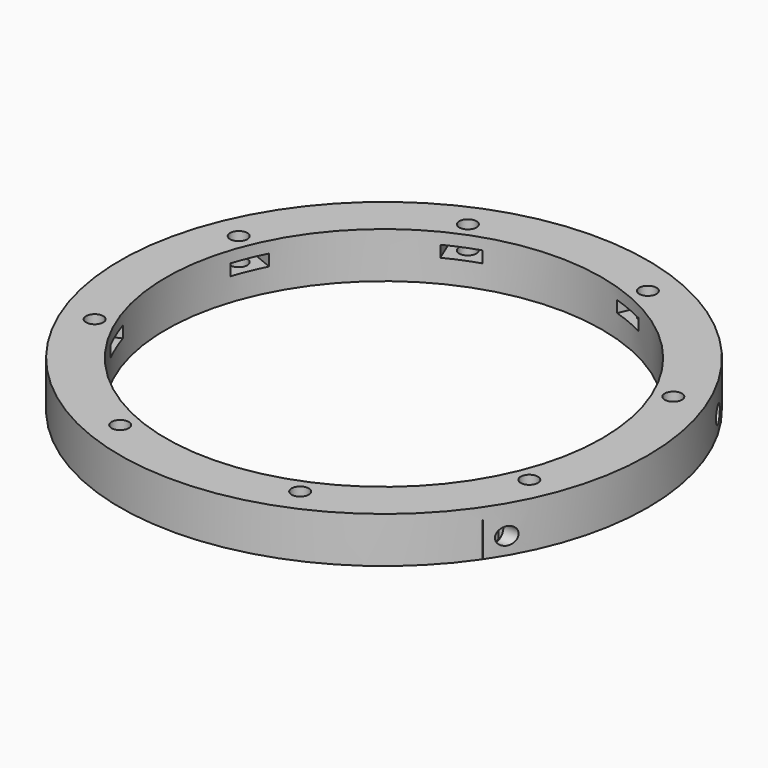
from build123d import *

# Parameters (mm, degrees)
CYLINDER247_R               = 1.5
CYLINDER247_DEPTH           = 60
CYLINDER248_R               = 1.5
CYLINDER248_DEPTH           = 60
CYLINDER250_R               = 1.5
CYLINDER250_DEPTH           = 60
CYLINDER249_R               = 1.5
CYLINDER249_DEPTH           = 60
BOX106_W                    = 2
BOX106_H                    = 6
BOX106_DEPTH                = 6
BOX109_W                    = 2
BOX109_H                    = 6
BOX109_DEPTH                = 6
BOX107_W                    = 2
BOX107_H                    = 6
BOX107_DEPTH                = 6
BOX108_W                    = 2
BOX108_H                    = 6
BOX108_DEPTH                = 6
BOX088_W                    = 8
BOX088_H                    = 6
BOX088_DEPTH                = 2
BOX089_W                    = 8
BOX089_H                    = 6
BOX089_DEPTH                = 2
BOX089_PLACEMENT_ANGLE      = 135
BOX090_W                    = 8
BOX090_H                    = 6
BOX090_DEPTH                = 2
BOX091_W                    = 8
BOX091_H                    = 6
BOX091_DEPTH                = 2
BOX091_PLACEMENT_ANGLE      = 225
BOX092_W                    = 8
BOX092_H                    = 6
BOX092_DEPTH                = 2
BOX093_W                    = 8
BOX093_H                    = 6
BOX093_DEPTH                = 2
BOX093_PLACEMENT_ANGLE      = 45
BOX070_W                    = 8
BOX070_H                    = 6
BOX070_DEPTH                = 2
BOX087_W                    = 8
BOX087_H                    = 6
BOX087_DEPTH                = 2
BOX087_PLACEMENT_ANGLE      = 45
COMPOUND206_PLACEMENT_ANGLE = 22.5
CYLINDER205_R               = 1.5
CYLINDER205_DEPTH           = 60
CYLINDER206_R               = 1.5
CYLINDER206_DEPTH           = 60
CYLINDER206_PLACEMENT_ANGLE = 135
CYLINDER207_R               = 1.5
CYLINDER207_DEPTH           = 60
CYLINDER208_R               = 1.5
CYLINDER208_DEPTH           = 60
CYLINDER208_PLACEMENT_ANGLE = 225
CYLINDER209_R               = 1.5
CYLINDER209_DEPTH           = 60
CYLINDER210_R               = 1.5
CYLINDER210_DEPTH           = 60
CYLINDER210_PLACEMENT_ANGLE = 45
CYLINDER189_R               = 1.5
CYLINDER189_DEPTH           = 60
CYLINDER204_R               = 1.5
CYLINDER204_DEPTH           = 60
CYLINDER204_PLACEMENT_ANGLE = 45
COMPOUND207_PLACEMENT_ANGLE = 22.5
TUBE009_R                   = 46
TUBE009_R_2                 = 38
TUBE009_DEPTH               = 8


with BuildPart() as obj1:
    # Cylinder247 → Cylinder247 (new body)
    with BuildSketch(Plane(origin=(32, -23, -5), x_dir=(0, 0, -1), z_dir=(1, 0, 0))):
        Circle(CYLINDER247_R)
    extrude(amount=CYLINDER247_DEPTH)


with BuildPart() as obj2:
    # Cylinder248 → Cylinder248 (new body)
    with BuildSketch(Plane(origin=(28, 51, 7), x_dir=(0, 0, -1), z_dir=(1, 0, 0))):
        Circle(CYLINDER248_R)
    extrude(amount=CYLINDER248_DEPTH)


with BuildPart() as obj3:
    # Cylinder250 → Cylinder250 (new body)
    with BuildSketch(Plane(origin=(28, -51, 7), x_dir=(0, 0, -1), z_dir=(1, 0, 0))):
        Circle(CYLINDER250_R)
    extrude(amount=CYLINDER250_DEPTH)


with BuildPart() as compound219:
    # Cylinder249 → Cylinder249 (new body)
    with BuildSketch(Plane(origin=(32, 23, -5), x_dir=(0, 0, -1), z_dir=(1, 0, 0))):
        Circle(CYLINDER249_R)
    extrude(amount=CYLINDER249_DEPTH)

    # Compound219: union obj1, obj2, obj3
    add(obj1.part)
    add(obj2.part)
    add(obj3.part)


with BuildPart() as krychle106:
    # Box106 → Box106 (new body)
    with BuildSketch(Plane(origin=(36, -26, -8), x_dir=(1, 0, 0), z_dir=(0, 0, 1))):
        with Locations((1, 3)):
            Rectangle(BOX106_W, BOX106_H)
    extrude(amount=BOX106_DEPTH)


with BuildPart() as krychle109:
    # Box109 → Box109 (new body)
    with BuildSketch(Plane(origin=(32, 48, 4), x_dir=(1, 0, 0), z_dir=(0, 0, 1))):
        with Locations((1, 3)):
            Rectangle(BOX109_W, BOX109_H)
    extrude(amount=BOX109_DEPTH)


with BuildPart() as krychle107:
    # Box107 → Box107 (new body)
    with BuildSketch(Plane(origin=(32, -54, 4), x_dir=(1, 0, 0), z_dir=(0, 0, 1))):
        with Locations((1, 3)):
            Rectangle(BOX107_W, BOX107_H)
    extrude(amount=BOX107_DEPTH)


with BuildPart() as compound218:
    # Box108 → Box108 (new body)
    with BuildSketch(Plane(origin=(36, 20, -8), x_dir=(1, 0, 0), z_dir=(0, 0, 1))):
        with Locations((1, 3)):
            Rectangle(BOX108_W, BOX108_H)
    extrude(amount=BOX108_DEPTH)

    # Compound218: union Krychle106, Krychle109, Krychle107
    add(krychle106.part)
    add(krychle109.part)
    add(krychle107.part)


with BuildPart() as krychle088:
    # Box088 → Box088 (new body)
    with BuildSketch(Plane(origin=(3, 37, -4), x_dir=(0, 1, 0), z_dir=(0, 0, 1))):
        with Locations((4, 3)):
            Rectangle(BOX088_W, BOX088_H)
    extrude(amount=BOX088_DEPTH)


with BuildPart() as krychle089:
    # Box089 → Box089 (new body)
    with BuildSketch(Plane.XY):
        with Locations((4, 3)):
            Rectangle(BOX089_W, BOX089_H)
    extrude(amount=BOX089_DEPTH)


with BuildPart() as krychle089_1:
    # Box089 placement: moved
    add(krychle089.part.moved(Location((-24.041631, 28.284271, -4))).rotate(Axis((-24.041631, 28.284271, -4), (0, 0, 1)), BOX089_PLACEMENT_ANGLE))


with BuildPart() as krychle090:
    # Box090 → Box090 (new body)
    with BuildSketch(Plane(origin=(-37, 3, -4), x_dir=(-1, 0, 0), z_dir=(0, 0, 1))):
        with Locations((4, 3)):
            Rectangle(BOX090_W, BOX090_H)
    extrude(amount=BOX090_DEPTH)


with BuildPart() as krychle091:
    # Box091 → Box091 (new body)
    with BuildSketch(Plane.XY):
        with Locations((4, 3)):
            Rectangle(BOX091_W, BOX091_H)
    extrude(amount=BOX091_DEPTH)


with BuildPart() as krychle091_1:
    # Box091 placement: moved
    add(krychle091.part.moved(Location((-28.284271, -24.041631, -4))).rotate(Axis((-28.284271, -24.041631, -4), (0, 0, 1)), BOX091_PLACEMENT_ANGLE))


with BuildPart() as krychle092:
    # Box092 → Box092 (new body)
    with BuildSketch(Plane(origin=(-3, -37, -4), x_dir=(0, -1, 0), z_dir=(0, 0, 1))):
        with Locations((4, 3)):
            Rectangle(BOX092_W, BOX092_H)
    extrude(amount=BOX092_DEPTH)


with BuildPart() as krychle093:
    # Box093 → Box093 (new body)
    with BuildSketch(Plane.XY):
        with Locations((4, 3)):
            Rectangle(BOX093_W, BOX093_H)
    extrude(amount=BOX093_DEPTH)


with BuildPart() as krychle093_1:
    # Box093 placement: moved
    add(krychle093.part.moved(Location((24.041631, -28.284271, -4))).rotate(Axis((24.041631, -28.284271, -4), (0, 0, -1)), BOX093_PLACEMENT_ANGLE))


with BuildPart() as krychle070:
    # Box070 → Box070 (new body)
    with BuildSketch(Plane(origin=(37, -3, -4), x_dir=(1, 0, 0), z_dir=(0, 0, 1))):
        with Locations((4, 3)):
            Rectangle(BOX070_W, BOX070_H)
    extrude(amount=BOX070_DEPTH)


with BuildPart() as compound206:
    # Box087 → Box087 (new body)
    with BuildSketch(Plane.XY):
        with Locations((4, 3)):
            Rectangle(BOX087_W, BOX087_H)
    extrude(amount=BOX087_DEPTH)


with BuildPart() as compound206_1:
    # Box087 placement: moved
    add(compound206.part.moved(Location((28.284271, 24.041631, -4))).rotate(Axis((28.284271, 24.041631, -4), (0, 0, 1)), BOX087_PLACEMENT_ANGLE))

    # Compound206: union Krychle088, Krychle089, Krychle090, Krychle091, Krychle092, Krychle093, Krychle070
    add(krychle088.part)
    add(krychle089_1.part)
    add(krychle090.part)
    add(krychle091_1.part)
    add(krychle092.part)
    add(krychle093_1.part)
    add(krychle070.part)


with BuildPart() as compound206_2:
    # Compound206 placement: moved
    add(compound206_1.part.rotate(Axis((0, 0, 0), (0, 0, 1)), COMPOUND206_PLACEMENT_ANGLE))


with BuildPart() as obj4:
    # Cylinder205 → Cylinder205 (new body)
    with BuildSketch(Plane(origin=(0, 41, -54), x_dir=(0, 1, 0), z_dir=(0, 0, 1))):
        Circle(CYLINDER205_R)
    extrude(amount=CYLINDER205_DEPTH)


with BuildPart() as obj5:
    # Cylinder206 → Cylinder206 (new body)
    with BuildSketch(Plane.XY):
        Circle(CYLINDER206_R)
    extrude(amount=CYLINDER206_DEPTH)


with BuildPart() as obj5_1:
    # Cylinder206 placement: moved
    add(obj5.part.moved(Location((-28.991378, 28.991378, -54))).rotate(Axis((-28.991378, 28.991378, -54), (0, 0, 1)), CYLINDER206_PLACEMENT_ANGLE))


with BuildPart() as obj6:
    # Cylinder207 → Cylinder207 (new body)
    with BuildSketch(Plane(origin=(-41, 0, -54), x_dir=(-1, 0, 0), z_dir=(0, 0, 1))):
        Circle(CYLINDER207_R)
    extrude(amount=CYLINDER207_DEPTH)


with BuildPart() as obj7:
    # Cylinder208 → Cylinder208 (new body)
    with BuildSketch(Plane.XY):
        Circle(CYLINDER208_R)
    extrude(amount=CYLINDER208_DEPTH)


with BuildPart() as obj7_1:
    # Cylinder208 placement: moved
    add(obj7.part.moved(Location((-28.991378, -28.991378, -54))).rotate(Axis((-28.991378, -28.991378, -54), (0, 0, 1)), CYLINDER208_PLACEMENT_ANGLE))


with BuildPart() as obj8:
    # Cylinder209 → Cylinder209 (new body)
    with BuildSketch(Plane(origin=(0, -41, -54), x_dir=(0, -1, 0), z_dir=(0, 0, 1))):
        Circle(CYLINDER209_R)
    extrude(amount=CYLINDER209_DEPTH)


with BuildPart() as obj9:
    # Cylinder210 → Cylinder210 (new body)
    with BuildSketch(Plane.XY):
        Circle(CYLINDER210_R)
    extrude(amount=CYLINDER210_DEPTH)


with BuildPart() as obj9_1:
    # Cylinder210 placement: moved
    add(obj9.part.moved(Location((28.991378, -28.991378, -54))).rotate(Axis((28.991378, -28.991378, -54), (0, 0, -1)), CYLINDER210_PLACEMENT_ANGLE))


with BuildPart() as obj10:
    # Cylinder189 → Cylinder189 (new body)
    with BuildSketch(Plane(origin=(41, 0, -54), x_dir=(1, 0, 0), z_dir=(0, 0, 1))):
        Circle(CYLINDER189_R)
    extrude(amount=CYLINDER189_DEPTH)


with BuildPart() as compound207:
    # Cylinder204 → Cylinder204 (new body)
    with BuildSketch(Plane.XY):
        Circle(CYLINDER204_R)
    extrude(amount=CYLINDER204_DEPTH)


with BuildPart() as compound207_1:
    # Cylinder204 placement: moved
    add(compound207.part.moved(Location((28.991378, 28.991378, -54))).rotate(Axis((28.991378, 28.991378, -54), (0, 0, 1)), CYLINDER204_PLACEMENT_ANGLE))

    # Compound207: union obj4, obj5, obj6, obj7, obj8, obj9, obj10
    add(obj4.part)
    add(obj5_1.part)
    add(obj6.part)
    add(obj7_1.part)
    add(obj8.part)
    add(obj9_1.part)
    add(obj10.part)


with BuildPart() as compound207_2:
    # Compound207 placement: moved
    add(compound207_1.part.rotate(Axis((0, 0, 0), (0, 0, 1)), COMPOUND207_PLACEMENT_ANGLE))


with BuildPart() as cut081:
    # Tube009 → Tube009 (new body)
    with BuildSketch(Plane.XY.offset(-8)):
        Circle(TUBE009_R)
        Circle(TUBE009_R_2, mode=Mode.SUBTRACT)
    extrude(amount=TUBE009_DEPTH)

    # Cut069: cut Compound207
    add(compound207_2.part, mode=Mode.SUBTRACT)

    # Cut070: cut Compound206
    add(compound206_2.part, mode=Mode.SUBTRACT)

    # Cut080: cut Compound218
    add(compound218.part, mode=Mode.SUBTRACT)

    # Cut081: cut Compound219
    add(compound219.part, mode=Mode.SUBTRACT)


solid = cut081.part
